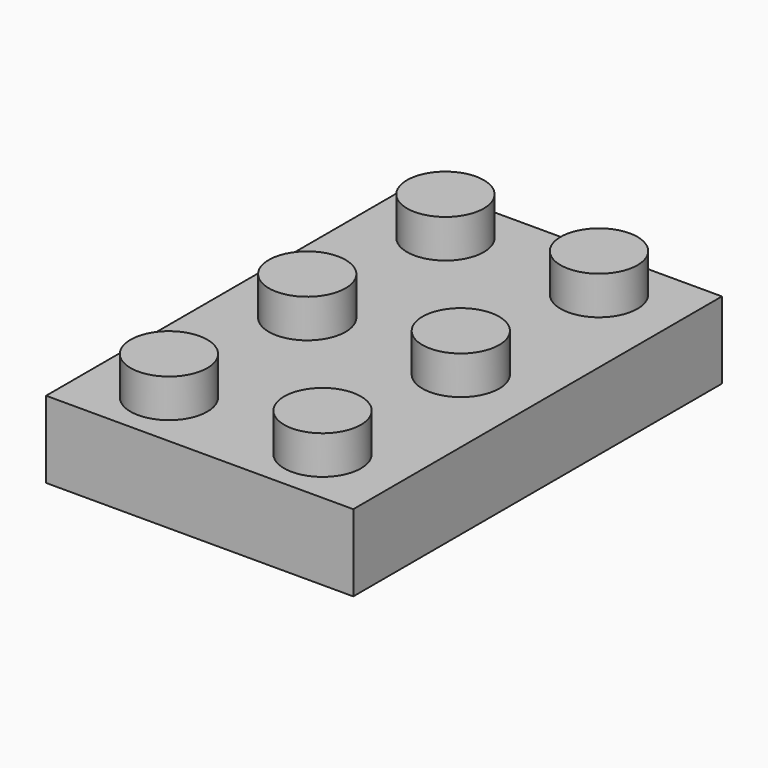
from build123d import *

# Parameters (mm, degrees)
F0_W     = 40
F0_H     = 60
F1_DEPTH = 10
F2_R     = 5
F3_DEPTH = 5


with BuildPart() as f1:
    # F0 (on Top) → F1 (new body)
    with BuildSketch(Plane.XY):
        with Locations((-3.822541, 7.003246)):
            Rectangle(F0_W, F0_H)
    extrude(amount=-F1_DEPTH)

    # F2 (on face) → F3 (join)
    with BuildSketch(Plane.XY):
        with Locations((-13.822541, 29.503246)):
            Circle(F2_R)
        with Locations((6.177459, 29.503246)):
            Circle(F2_R)
        with Locations((-13.822541, -15.496754)):
            Circle(F2_R)
        with Locations((6.177459, 7.003246)):
            Circle(F2_R)
        with Locations((-13.822541, 7.003246)):
            Circle(F2_R)
        with Locations((6.177459, -15.496754)):
            Circle(F2_R)
    extrude(amount=F3_DEPTH)


solid = f1.part
